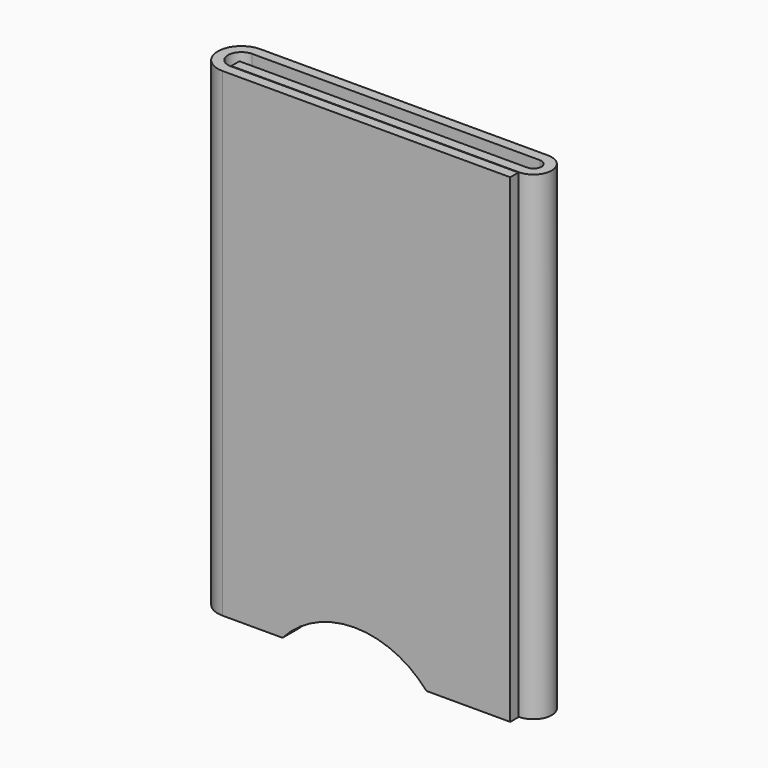
from build123d import *

# Parameters (mm, degrees)
F0_DEPTH = 95.25
F1_R     = 19.05
F2_DEPTH = 12.7


with BuildPart() as f0:
    # F3 (on Top) → F0 (new body)
    with BuildSketch(Plane.XY):
        with BuildLine():
            Line((57.15, 4.699), (0, 4.699))
            ThreePointArc((0, 4.699), (-4.699, 0), (0, -4.699))
            Line((0, -4.699), (57.15, -4.699))
            Line((57.15, -4.699), (57.15, -2.667))
            Line((57.15, -2.667), (0, -2.667))
            ThreePointArc((0, -2.667), (-2.667, 0), (0, 2.667))
            Line((0, 2.667), (57.15, 2.667))
            ThreePointArc((57.15, 2.667), (58.7375, 1.0795), (57.15, -0.508))
            Line((57.15, -0.508), (0, -0.508))
            Line((0, -0.508), (0, -2.54))
            Line((0, -2.54), (57.15, -2.54))
            ThreePointArc((57.15, -2.54), (60.7695, 1.0795), (57.15, 4.699))
        make_face()
    extrude(amount=F0_DEPTH)

    # F1 (on Front) → F2 (cut, symmetric)
    with BuildSketch(Plane.XZ):
        with Locations((26.212846, -12.593197)):
            Circle(F1_R)
    extrude(amount=F2_DEPTH, both=True, mode=Mode.SUBTRACT)


solid = f0.part
